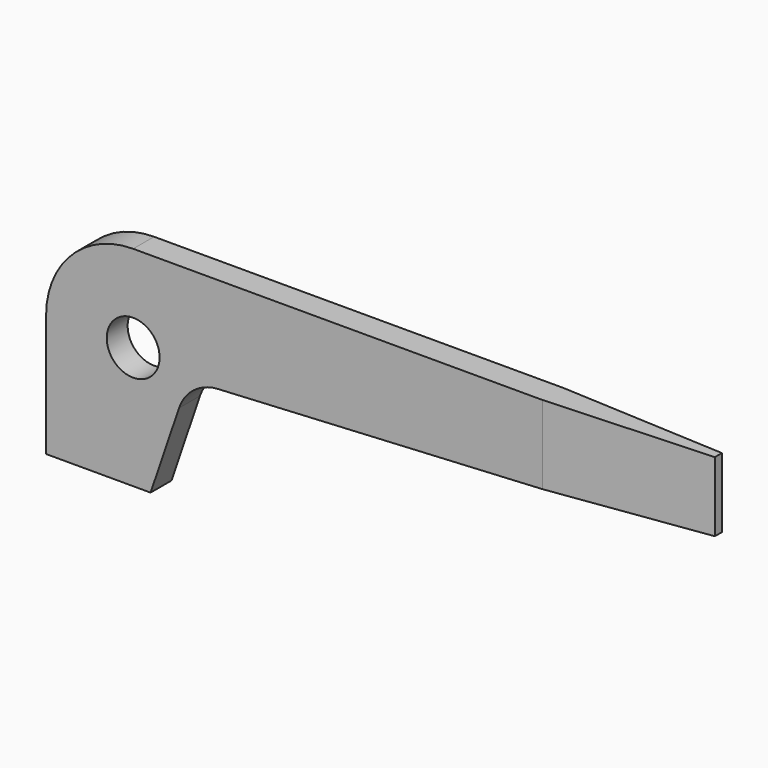
from build123d import *

# Parameters (mm, degrees)
F0_R     = 2.407827
F1_DEPTH = 2.38125
F3_DEPTH = 25.4


with BuildPart() as f1:
    # F0 (on Front) → F1 (new body)
    with BuildSketch(Plane.XZ):
        with BuildLine():
            Line((0, 11.1125), (0, 0))
            Line((0, 0), (9.525, 0))
            Line((9.525, 0), (12.117365, 7.627166))
            ThreePointArc((12.117365, 7.627166), (13.478615, 9.513592), (15.663196, 10.313094))
            Line((15.663196, 10.313094), (60.325, 12.7))
            Line((60.325, 12.7), (60.325, 19.05))
            Line((60.325, 19.05), (7.9375, 19.05))
            ThreePointArc((7.9375, 19.05), (2.32484, 16.72516), (0, 11.1125))
        make_face()
        with Locations((7.9375, 11.1125)):
            Circle(F0_R, mode=Mode.SUBTRACT)
    extrude(amount=F1_DEPTH)

    # F2 (on face) → F3 (cut)
    with BuildSketch(Plane.XY.offset(19.05)):
        Polygon((60.325, -0.7874), (60.325, 0), (45.2374, 0), align=None)
        Polygon((60.325, -2.38125), (60.325, -1.59385), (45.2374, -2.38125), align=None)
    extrude(amount=-F3_DEPTH, mode=Mode.SUBTRACT)


solid = f1.part
